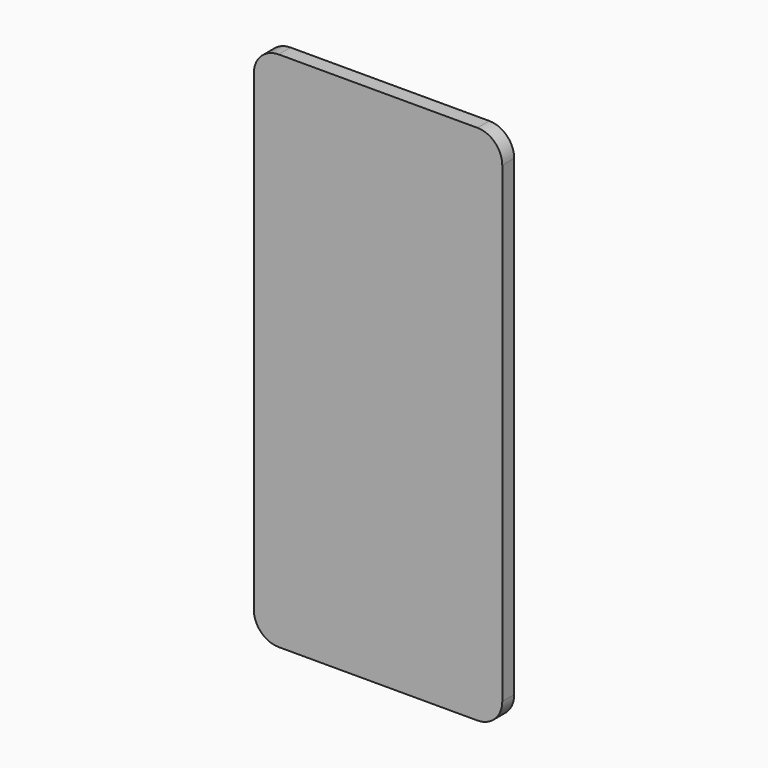
from build123d import *

# Parameters (mm, degrees)
F0_W     = 100
F0_H     = 210
F1_DEPTH = 6
F2_R     = 10
F3_R     = 10


with BuildPart() as f1:
    # F0 (on Front) → F1 (new body)
    with BuildSketch(Plane.XZ):
        Rectangle(F0_W, F0_H)
    extrude(amount=F1_DEPTH)

    # F2
    f2_edges = [f1.edges().sort_by_distance(p)[0] for p in [
        (-50, -3, -105),
        (50, -3, -105),
    ]]
    fillet(f2_edges, radius=F2_R)

    # F3
    f3_edges = [f1.edges().sort_by_distance(p)[0] for p in [
        (-50, -3, 105),
        (50, -3, 105),
    ]]
    fillet(f3_edges, radius=F3_R)


solid = f1.part
